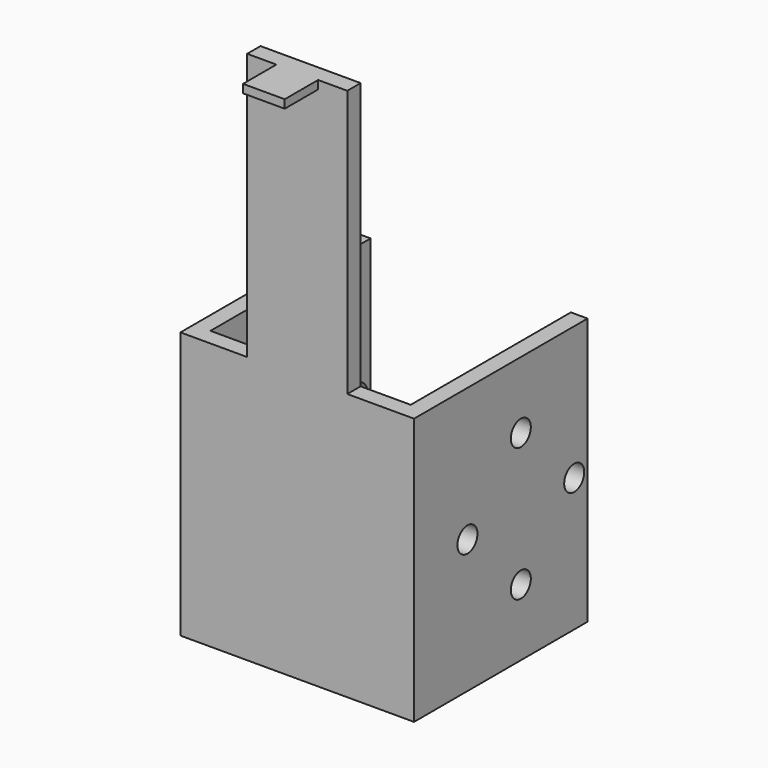
from build123d import *

# Parameters (mm, degrees)
F0_W      = 12
F0_H      = 64
F1_DEPTH  = 2
F2_W      = 2
F2_H      = 32
F3_DEPTH  = 8
F4_W      = 2
F4_H      = 32
F5_DEPTH  = 8
F6_W      = 5
F6_H      = 2
F7_DEPTH  = 5
F8_W      = 5
F8_H      = 1
F9_DEPTH  = 16.501
F10_W     = 2
F10_H     = 32
F11_DEPTH = 24
F12_R     = 1.5
F13_DEPTH = 28.001


with BuildPart() as f1:
    # F0 (on Front) → F1 (new body)
    with BuildSketch(Plane.XZ):
        with Locations((-1.9052418647, 6.8026150874)):
            Rectangle(F0_W, F0_H)
    extrude(amount=F1_DEPTH)

    # F2 (on face) → F3 (join)
    with BuildSketch(Plane.YZ.offset(4.0947581353)):
        with Locations((-1, -9.1973849126)):
            Rectangle(F2_W, F2_H)
    extrude(amount=F3_DEPTH)

    # F4 (on face) → F5 (join)
    with BuildSketch(Plane(origin=(-7.9052418647, 0, 0), x_dir=(0, -1, 0), z_dir=(-1, 0, 0))):
        with Locations((1, -9.1973849126)):
            Rectangle(F4_W, F4_H)
    extrude(amount=F5_DEPTH)

    # F6 (on face) → F7 (join)
    with BuildSketch(Plane.XZ.offset(2)):
        with Locations((-1.9052418647, 38.8026150874)):
            Rectangle(F6_W, F6_H)
    extrude(amount=F7_DEPTH)

    # F8 (on face) → F9 (cut, through all)
    with BuildSketch(Plane(origin=(-4.4052418647, 0, 0), x_dir=(0, -1, 0), z_dir=(-1, 0, 0))):
        with Locations((4.5, 39.3026150874)):
            Rectangle(F8_W, F8_H)
    extrude(amount=-F9_DEPTH, mode=Mode.SUBTRACT)

    # F10 (on face) → F11 (join)
    with BuildSketch(Plane(origin=(0, 0, 0), x_dir=(-1, 0, 0), z_dir=(0, 1, 0))):
        with Locations((-11.0947581353, -9.1973849126)):
            Rectangle(F10_W, F10_H)
        with Locations((14.9052418647, -9.1973849126)):
            Rectangle(F10_W, F10_H)
    extrude(amount=F11_DEPTH)

    # F12 (on face) → F13 (cut, through all)
    with BuildSketch(Plane(origin=(-15.9052418647, 0, 0), x_dir=(0, -1, 0), z_dir=(-1, 0, 0))):
        with Locations((-14, -1.1973849126)):
            Circle(F12_R)
        with Locations((-14, -17.1973849126)):
            Circle(F12_R)
        with BuildLine():
            Line((-23.5, -9.1973849126), (-20.5, -9.1973849126))
            ThreePointArc((-20.5, -9.1973849126), (-22, -7.6973849126), (-23.5, -9.1973849126))
        make_face()
        with BuildLine():
            ThreePointArc((-4.5, -9.1973849126), (-6, -7.6973849126), (-7.5, -9.1973849126))
            Line((-7.5, -9.1973849126), (-4.5, -9.1973849126))
        make_face()
        with BuildLine():
            Line((-4.5, -9.1973849126), (-7.5, -9.1973849126))
            ThreePointArc((-7.5, -9.1973849126), (-6, -10.6973849126), (-4.5, -9.1973849126))
        make_face()
        with BuildLine():
            ThreePointArc((-23.5, -9.1973849126), (-22, -10.6973849126), (-20.5, -9.1973849126))
            Line((-20.5, -9.1973849126), (-23.5, -9.1973849126))
        make_face()
    extrude(amount=-F13_DEPTH, mode=Mode.SUBTRACT)


solid = f1.part
